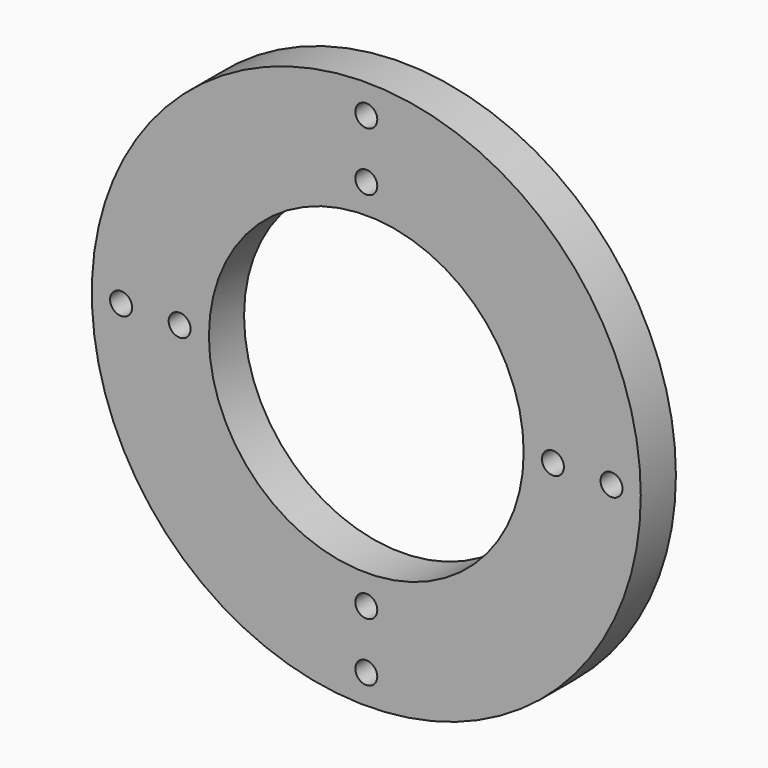
from build123d import *

# Parameters (mm, degrees)
F0_R     = 59.53125
F0_R_2   = 46.83125
F0_R_3   = 34.13125
F1_DEPTH = 9.525
F3_DEPTH = 25.4


with BuildPart() as f1:
    # F0 (on Front) → F1 (new body)
    with BuildSketch(Plane.XZ):
        Circle(F0_R)
        Circle(F0_R_2, mode=Mode.SUBTRACT)
        Circle(F0_R_2)
        Circle(F0_R_3, mode=Mode.SUBTRACT)
    extrude(amount=F1_DEPTH)

    # F2 (on face) → F3 (cut)
    with BuildSketch(Plane.XZ.offset(9.525)):
        with BuildLine():
            Line((38.1, 0), (42.8625, 0))
            ThreePointArc((42.8625, 0), (40.48125, 2.38125), (38.1, 0))
        make_face()
        with BuildLine():
            ThreePointArc((38.1, 0), (40.48125, -2.38125), (42.8625, 0))
            Line((42.8625, 0), (38.1, 0))
        make_face()
        with BuildLine():
            ThreePointArc((55.5625, 0), (53.18125, 2.38125), (50.8, 0))
            Line((50.8, 0), (55.5625, 0))
        make_face()
        with BuildLine():
            Line((55.5625, 0), (50.8, 0))
            ThreePointArc((50.8, 0), (53.18125, -2.38125), (55.5625, 0))
        make_face()
        with BuildLine():
            ThreePointArc((0, -38.1), (-2.38125, -40.48125), (0, -42.8625))
            Line((0, -42.8625), (0, -38.1))
        make_face()
        with BuildLine():
            Line((0, -38.1), (0, -42.8625))
            ThreePointArc((0, -42.8625), (1.6837980227, -42.1650480227), (2.38125, -40.48125))
            ThreePointArc((2.38125, -40.48125), (1.6837980227, -38.7974519773), (0, -38.1))
        make_face()
        with BuildLine():
            Line((0, -55.5625), (0, -50.8))
            ThreePointArc((0, -50.8), (-2.38125, -53.18125), (0, -55.5625))
        make_face()
        with BuildLine():
            ThreePointArc((2.38125, -53.18125), (1.6837980227, -51.4974519773), (0, -50.8))
            Line((0, -50.8), (0, -55.5625))
            ThreePointArc((0, -55.5625), (1.6837980227, -54.8650480227), (2.38125, -53.18125))
        make_face()
        with BuildLine():
            ThreePointArc((-38.1, 0), (-40.48125, 2.38125), (-42.8625, 0))
            Line((-42.8625, 0), (-38.1, 0))
        make_face()
        with BuildLine():
            Line((-38.1, 0), (-42.8625, 0))
            ThreePointArc((-42.8625, 0), (-40.48125, -2.38125), (-38.1, 0))
        make_face()
        with BuildLine():
            Line((-55.5625, 0), (-50.8, 0))
            ThreePointArc((-50.8, 0), (-53.18125, 2.38125), (-55.5625, 0))
        make_face()
        with BuildLine():
            ThreePointArc((-55.5625, 0), (-53.18125, -2.38125), (-50.8, 0))
            Line((-50.8, 0), (-55.5625, 0))
        make_face()
        with BuildLine():
            ThreePointArc((0, 55.5625), (-2.38125, 53.18125), (0, 50.8))
            Line((0, 50.8), (0, 55.5625))
        make_face()
        with BuildLine():
            Line((0, 55.5625), (0, 50.8))
            ThreePointArc((0, 50.8), (1.6837980227, 51.4974519773), (2.38125, 53.18125))
            ThreePointArc((2.38125, 53.18125), (1.6837980227, 54.8650480227), (0, 55.5625))
        make_face()
        with BuildLine():
            ThreePointArc((2.38125, 40.48125), (1.6837980227, 42.1650480227), (0, 42.8625))
            Line((0, 42.8625), (0, 38.1))
            ThreePointArc((0, 38.1), (1.6837980227, 38.7974519773), (2.38125, 40.48125))
        make_face()
        with BuildLine():
            Line((0, 38.1), (0, 42.8625))
            ThreePointArc((0, 42.8625), (-2.38125, 40.48125), (0, 38.1))
        make_face()
    extrude(amount=-F3_DEPTH, mode=Mode.SUBTRACT)


solid = f1.part
